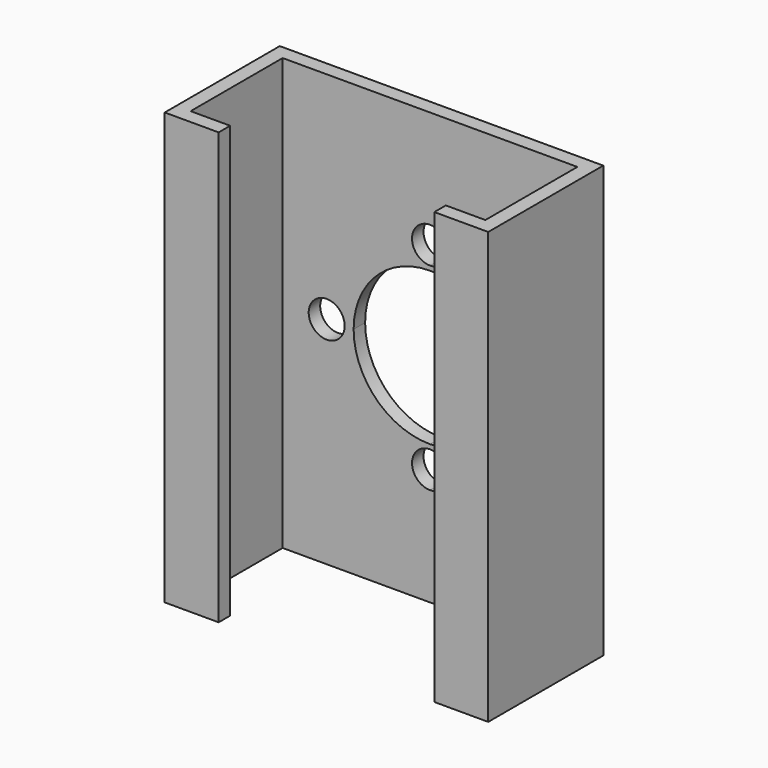
from build123d import *

# Parameters (mm, degrees)
F1_DEPTH = 48
F3_DEPTH = 25
F4_DEPTH = 25
F5_DEPTH = 25


with BuildPart() as f1:
    # F0 (on Top) → F1 (new body)
    with BuildSketch(Plane.XY):
        Polygon((12, -8), (18, -8), (18, 8), (-18, 8), (-18, -8), (-12, -8), (-12, -6.4), (-16.4, -6.4), (-16.4, 6.4), (16.4, 6.4), (16.4, -6.4), (12, -6.4), align=None)
    extrude(amount=F1_DEPTH)

    # F2 (on face) → F3 (cut)
    with BuildSketch(Plane.XZ.offset(-6.4)):
        with BuildLine():
            Line((0, 24), (0, 32.5))
            ThreePointArc((0, 32.5), (-6.0104076401, 30.0104076401), (-8.5, 24))
            Line((-8.5, 24), (0, 24))
        make_face()
        with BuildLine():
            ThreePointArc((8.5, 24), (6.0104076401, 30.0104076401), (0, 32.5))
            Line((0, 32.5), (0, 24))
            Line((0, 24), (8.5, 24))
        make_face()
        with BuildLine():
            Line((0, 15.5), (0, 24))
            Line((0, 24), (-8.5, 24))
            ThreePointArc((-8.5, 24), (-6.0104076401, 17.9895923599), (0, 15.5))
        make_face()
        with BuildLine():
            Line((8.5, 24), (0, 24))
            Line((0, 24), (0, 15.5))
            ThreePointArc((0, 15.5), (6.0104076401, 17.9895923599), (8.5, 24))
        make_face()
    extrude(amount=-F3_DEPTH, mode=Mode.SUBTRACT)

    # F2 (on face) → F4 (cut)
    with BuildSketch(Plane.XZ.offset(-6.4)):
        with BuildLine():
            Line((0, 15), (0, 11))
            ThreePointArc((0, 11), (1.4142135624, 11.5857864376), (2, 13))
            ThreePointArc((2, 13), (1.4142135624, 14.4142135624), (0, 15))
        make_face()
        with BuildLine():
            ThreePointArc((0, 15), (-2, 13), (0, 11))
            Line((0, 11), (0, 15))
        make_face()
        with BuildLine():
            Line((0, 33), (0, 37))
            ThreePointArc((0, 37), (-2, 35), (0, 33))
        make_face()
        with BuildLine():
            ThreePointArc((2, 35), (1.4142135624, 36.4142135624), (0, 37))
            Line((0, 37), (0, 33))
            ThreePointArc((0, 33), (1.4142135624, 33.5857864376), (2, 35))
        make_face()
    extrude(amount=-F4_DEPTH, mode=Mode.SUBTRACT)

    # F2 (on face) → F5 (cut)
    with BuildSketch(Plane.XZ.offset(-6.4)):
        with BuildLine():
            Line((-9.5, 24), (-13.5, 24))
            ThreePointArc((-13.5, 24), (-11.5, 22), (-9.5, 24))
        make_face()
        with BuildLine():
            ThreePointArc((-9.5, 24), (-11.5, 26), (-13.5, 24))
            Line((-13.5, 24), (-9.5, 24))
        make_face()
        with BuildLine():
            Line((9.5, 24), (13.5, 24))
            ThreePointArc((13.5, 24), (11.5, 26), (9.5, 24))
        make_face()
        with BuildLine():
            ThreePointArc((9.5, 24), (11.5, 22), (13.5, 24))
            Line((13.5, 24), (9.5, 24))
        make_face()
    extrude(amount=-F5_DEPTH, mode=Mode.SUBTRACT)


solid = f1.part
